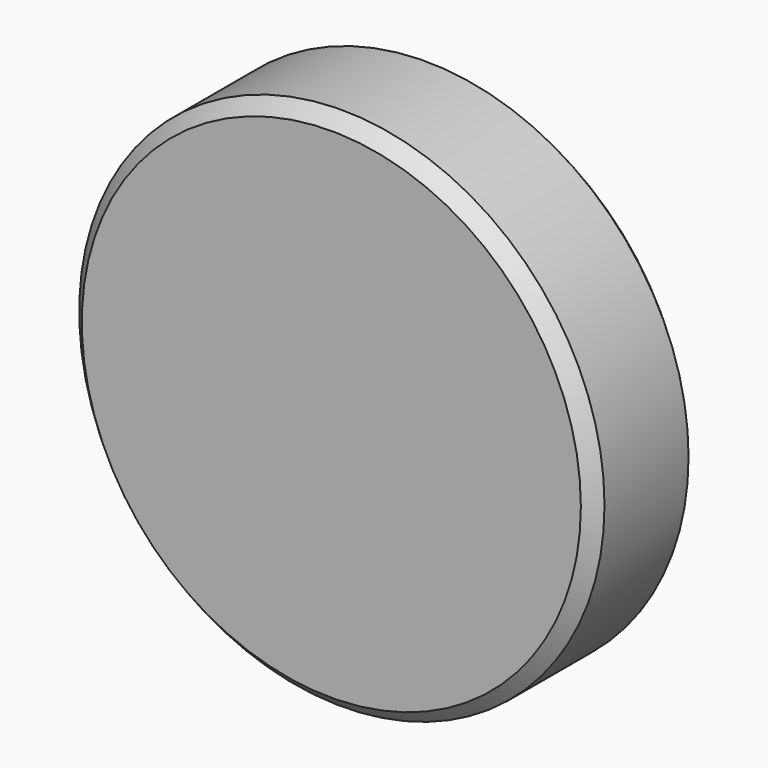
from build123d import *

# Parameters (mm, degrees)
F0_R     = 101.6
F1_DEPTH = 50.8
F2_SIZE  = 5.08


with BuildPart() as f1:
    # F0 (on Front) → F1 (new body)
    with BuildSketch(Plane.XZ):
        Circle(F0_R)
    extrude(amount=F1_DEPTH)

    # F2
    f2_edges = [f1.edges().sort_by_distance(p)[0] for p in [
        (-101.6, 0, 0),
        (101.6, -25.4, 0),
        (-101.6, -50.8, 0),
    ]]
    chamfer(f2_edges, length=F2_SIZE)


solid = f1.part
